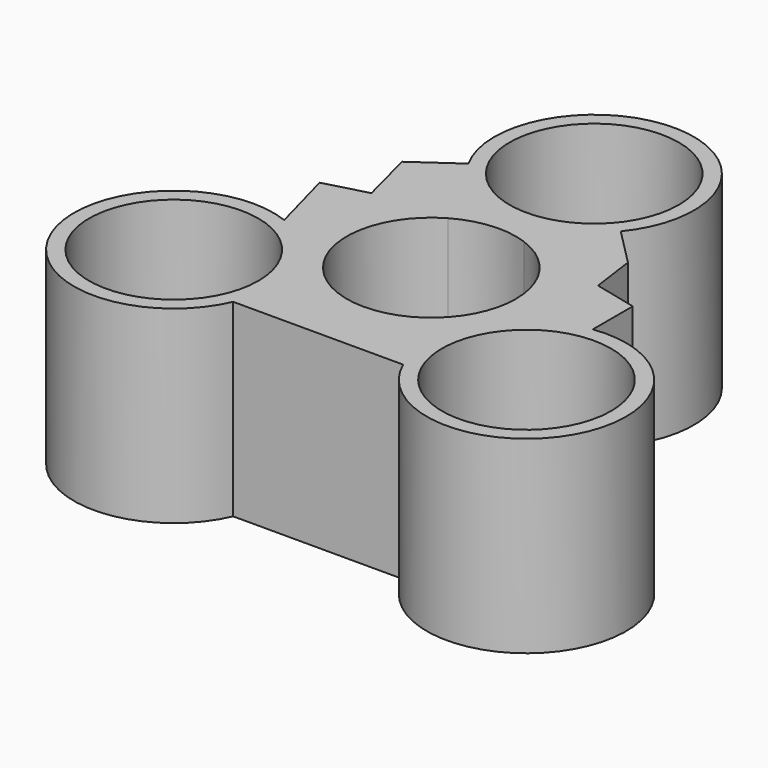
from build123d import *

# Parameters (mm, degrees)
F0_R     = 11.2
F1_DEPTH = 25


with BuildPart() as f1:
    # F0 (on Top) → F1 (new body)
    with BuildSketch(Plane.XY):
        with BuildLine():
            ThreePointArc((3.831396, 10.524277), (9.174738, 6.42372), (11.2, 0))
            ThreePointArc((11.2, 0), (7.919596, -7.919596), (0, -11.2))
            Line((0, -11.2), (1.961414, -18.765441))
            Line((1.961414, -18.765441), (11.275878, -18.765441))
            ThreePointArc((11.275878, -18.765441), (34.854913, -19.940638), (21.662812, -0.362067))
            Line((21.662812, -0.362067), (21.662812, 6.24599))
            Line((21.662812, 6.24599), (15.962205, 7.635998))
            Line((15.962205, 7.635998), (15.147737, 13.595152))
            Line((15.147737, 13.595152), (12.678516, 16.088038))
            Line((12.678516, 16.088038), (11.0789, 17.702983))
            Line((11.0789, 17.702983), (3.831396, 10.524277))
        make_face()
        with Locations((23.359479, -13.452572)):
            Circle(F0_R, mode=Mode.SUBTRACT)
        with BuildLine():
            ThreePointArc((-5.568315, 9.717709), (-0.957528, 11.158994), (3.831396, 10.524277))
            Line((3.831396, 10.524277), (11.0789, 17.702983))
            Line((11.0789, 17.702983), (10.209294, 18.580924))
            ThreePointArc((10.209294, 18.580924), (1.201666, 40.09333), (-11.557174, 20.570703))
            Line((-11.557174, 20.570703), (-5.568315, 9.717709))
        make_face()
        with Locations((0, 26.948141)):
            Circle(F0_R, mode=Mode.SUBTRACT)
        with BuildLine():
            Line((1.961414, -18.765441), (0, -11.2))
            ThreePointArc((0, -11.2), (-10.823085, -2.881116), (-5.568315, 9.717709))
            Line((-5.568315, 9.717709), (-11.557174, 20.570703))
            Line((-11.557174, 20.570703), (-17.183078, 16.615154))
            Line((-17.183078, 16.615154), (-15.250741, 9.161863))
            Line((-15.250741, 9.161863), (-20.906688, 7.635998))
            Line((-20.906688, 7.635998), (-18.528908, -1.177754))
            ThreePointArc((-18.528908, -1.177754), (-35.495636, -18.552516), (-11.211755, -18.765441))
            Line((-11.211755, -18.765441), (1.961414, -18.765441))
        make_face()
        with Locations((-23.308304, -13.482118)):
            Circle(F0_R, mode=Mode.SUBTRACT)
    extrude(amount=F1_DEPTH)


solid = f1.part
